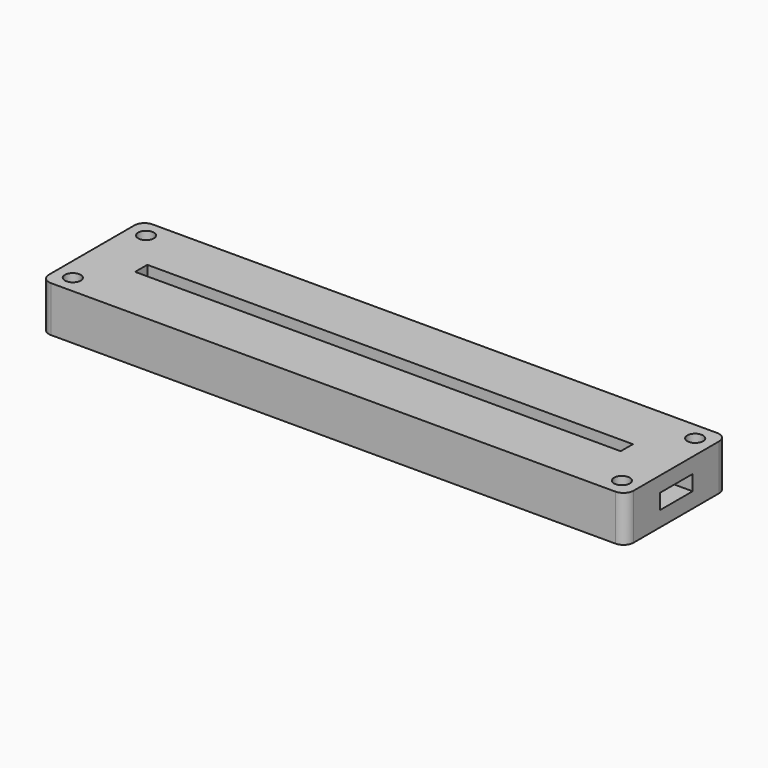
from build123d import *

# Parameters (mm, degrees)
SKETCH_W              = 115
SKETCH_H              = 25
PAD_DEPTH             = 3
PAD001_DEPTH          = 3
SKETCH002_W           = 115
SKETCH002_H           = 25
SKETCH002_W_2         = 95.5
SKETCH002_H_2         = 3
PAD002_DEPTH          = 3
SKETCH003_R           = 1.55
POCKET_DEPTH          = 245.060315
POLARPATTERN_COUNT    = 2
POLARPATTERN001_COUNT = 2
POLARPATTERN002_COUNT = 2
FILLET_R              = 2


with BuildPart() as part:
    # Sketch → Pad (new body)
    with BuildSketch(Plane.XY):
        Rectangle(SKETCH_W, SKETCH_H)
    extrude(amount=PAD_DEPTH)

    # Sketch001 (on Face6 of Pad) → Pad001 (join)
    with BuildSketch(Plane.XY.offset(3)):
        Polygon((-57.5, 12.5), (57.5, 12.5), (57.5, 4), (50, 4), (50, 5), (-50, 5), (-50, 4), (-57.5, 4), align=None)
        Polygon((-57.5, -12.5), (57.5, -12.5), (57.5, -4), (50, -4), (50, -5), (-50, -5), (-50, -4), (-57.5, -4), align=None)
    extrude(amount=PAD001_DEPTH)

    # Sketch002 (on Face12 of Pad001) → Pad002 (join)
    with BuildSketch(Plane.XY.offset(6)):
        Rectangle(SKETCH002_W, SKETCH002_H)
        Rectangle(SKETCH002_W_2, SKETCH002_H_2, mode=Mode.SUBTRACT)
    extrude(amount=PAD002_DEPTH)

    # Sketch003 (on Face26 of Pad002) → Pocket (cut, through all)
    with BuildSketch(Plane.XY.offset(9)):
        with Locations((-54, 9)):
            Circle(SKETCH003_R)
    pocket = extrude(amount=-POCKET_DEPTH, mode=Mode.SUBTRACT)

    # PolarPattern: Pocket ×2 about axis
    polarpattern_axis = Axis((0, 0, 0), (0, 1, 0))
    for i in range(1, POLARPATTERN_COUNT):
        add(pocket.rotate(polarpattern_axis, i * 360 / POLARPATTERN_COUNT), mode=Mode.SUBTRACT)

    # PolarPattern001: Pocket ×2 about axis
    polarpattern001_axis = Axis((0, 0, 0), (1, 0, 0))
    for i in range(1, POLARPATTERN001_COUNT):
        add(pocket.rotate(polarpattern001_axis, i * 360 / POLARPATTERN001_COUNT), mode=Mode.SUBTRACT)

    # PolarPattern002: Pocket ×2 about axis
    polarpattern002_axis = Axis((0, 0, 9), (0, 0, 1))
    for i in range(1, POLARPATTERN002_COUNT):
        add(pocket.rotate(polarpattern002_axis, i * 360 / POLARPATTERN002_COUNT), mode=Mode.SUBTRACT)

    # Fillet
    fillet_edges = [part.edges().sort_by_distance(p)[0] for p in [
        (57.5, 12.5, 7.5),
        (57.5, 12.5, 4.5),
        (57.5, 12.5, 1.5),
        (57.5, -12.5, 7.5),
        (-57.5, 12.5, 7.5),
        (-57.5, -12.5, 7.5),
    ]]
    fillet(fillet_edges, radius=FILLET_R)


solid = part.part
